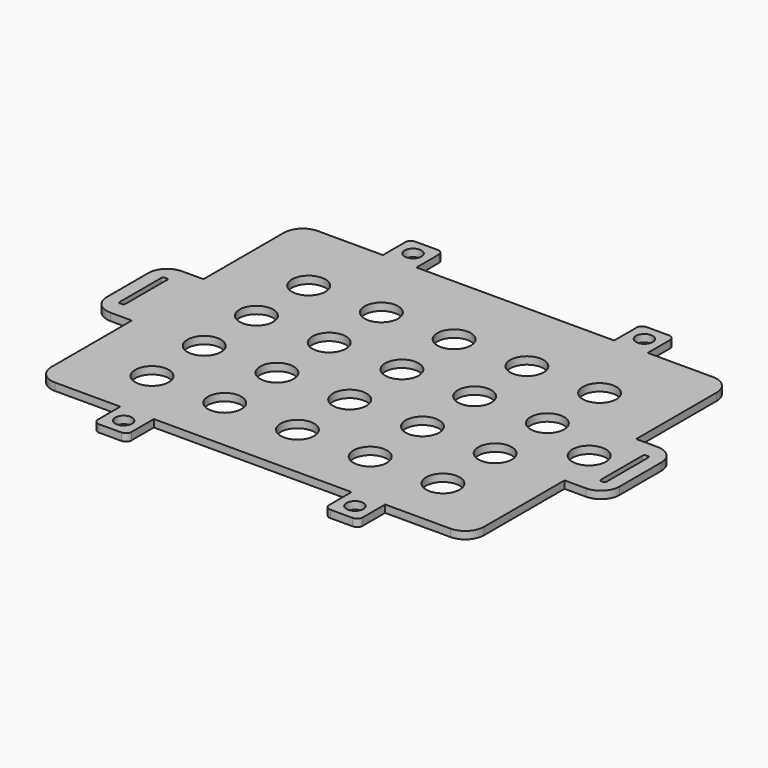
from build123d import *

# Parameters (mm, degrees)
F0_R     = 9
F0_R_2   = 4.5
F0_W     = 3
F0_H     = 30
F1_DEPTH = 4
F2_R     = 1
F3_R     = 1
F4_R     = 1
F5_R     = 1


with BuildPart() as f1:
    # F0 (on Top) → F1 (new body)
    with BuildSketch(Plane.XY):
        with BuildLine():
            Line((71, -88), (106, -88))
            ThreePointArc((106, -88), (113.071068, -85.071068), (116, -78))
            Line((116, -78), (116, -24))
            Line((116, -24), (127.5, -24))
            ThreePointArc((127.5, -24), (134.571068, -21.071068), (137.5, -14))
            Line((137.5, -14), (137.5, 14))
            ThreePointArc((137.5, 14), (134.571068, 21.071068), (127.5, 24))
            Line((127.5, 24), (116, 24))
            Line((116, 24), (116, 78))
            ThreePointArc((116, 78), (113.071068, 85.071068), (106, 88))
            Line((106, 88), (71, 88))
            Line((71, 88), (71, 103))
            ThreePointArc((71, 103), (70.12132, 105.12132), (68, 106))
            Line((68, 106), (56, 106))
            ThreePointArc((56, 106), (53.87868, 105.12132), (53, 103))
            Line((53, 103), (53, 88))
            Line((53, 88), (-53, 88))
            Line((-53, 88), (-53, 103))
            ThreePointArc((-53, 103), (-53.87868, 105.12132), (-56, 106))
            Line((-56, 106), (-68, 106))
            ThreePointArc((-68, 106), (-70.12132, 105.12132), (-71, 103))
            Line((-71, 103), (-71, 88))
            Line((-71, 88), (-106, 88))
            ThreePointArc((-106, 88), (-113.071068, 85.071068), (-116, 78))
            Line((-116, 78), (-116, 24))
            Line((-116, 24), (-127.5, 24))
            ThreePointArc((-127.5, 24), (-134.571068, 21.071068), (-137.5, 14))
            Line((-137.5, 14), (-137.5, -14))
            ThreePointArc((-137.5, -14), (-134.571068, -21.071068), (-127.5, -24))
            Line((-127.5, -24), (-116, -24))
            Line((-116, -24), (-116, -78))
            ThreePointArc((-116, -78), (-113.071068, -85.071068), (-106, -88))
            Line((-106, -88), (-71, -88))
            Line((-71, -88), (-71, -103))
            ThreePointArc((-71, -103), (-70.12132, -105.12132), (-68, -106))
            Line((-68, -106), (-56, -106))
            ThreePointArc((-56, -106), (-53.87868, -105.12132), (-53, -103))
            Line((-53, -103), (-53, -88))
            Line((-53, -88), (53, -88))
            Line((53, -88), (53, -103))
            ThreePointArc((53, -103), (53.87868, -105.12132), (56, -106))
            Line((56, -106), (68, -106))
            ThreePointArc((68, -106), (70.12132, -105.12132), (71, -103))
            Line((71, -103), (71, -88))
        make_face()
        with Locations((-78, -58)):
            Circle(F0_R, mode=Mode.SUBTRACT)
        with Locations((-62, -97)):
            Circle(F0_R_2, mode=Mode.SUBTRACT)
        with Locations((-39, -58)):
            Circle(F0_R, mode=Mode.SUBTRACT)
        with Locations((-78, -23)):
            Circle(F0_R, mode=Mode.SUBTRACT)
        with Locations((-39, -23)):
            Circle(F0_R, mode=Mode.SUBTRACT)
        with Locations((62, -97)):
            Circle(F0_R_2, mode=Mode.SUBTRACT)
        with Locations((0, -58)):
            Circle(F0_R, mode=Mode.SUBTRACT)
        with Locations((39, -58)):
            Circle(F0_R, mode=Mode.SUBTRACT)
        with Locations((78, -58)):
            Circle(F0_R, mode=Mode.SUBTRACT)
        with Locations((0, -23)):
            Circle(F0_R, mode=Mode.SUBTRACT)
        with Locations((39, -23)):
            Circle(F0_R, mode=Mode.SUBTRACT)
        with Locations((78, -23)):
            Circle(F0_R, mode=Mode.SUBTRACT)
        Polygon((-127.5, 15), (-127.5, 0), (-127.5, -15), (-130.5, -15), (-130.5, 0), (-130.5, 15), align=None, mode=Mode.SUBTRACT)
        with Locations((-78, 12)):
            Circle(F0_R, mode=Mode.SUBTRACT)
        with Locations((-78, 47)):
            Circle(F0_R, mode=Mode.SUBTRACT)
        with Locations((-39, 12)):
            Circle(F0_R, mode=Mode.SUBTRACT)
        with Locations((-39, 47)):
            Circle(F0_R, mode=Mode.SUBTRACT)
        with Locations((-62, 97)):
            Circle(F0_R_2, mode=Mode.SUBTRACT)
        with Locations((0, 12)):
            Circle(F0_R, mode=Mode.SUBTRACT)
        with Locations((39, 12)):
            Circle(F0_R, mode=Mode.SUBTRACT)
        with Locations((0, 47)):
            Circle(F0_R, mode=Mode.SUBTRACT)
        with Locations((39, 47)):
            Circle(F0_R, mode=Mode.SUBTRACT)
        with Locations((78, 12)):
            Circle(F0_R, mode=Mode.SUBTRACT)
        with Locations((110, 0)):
            Circle(F0_R, mode=Mode.SUBTRACT)
        with Locations((129, 0)):
            Rectangle(F0_W, F0_H, mode=Mode.SUBTRACT)
        with Locations((78, 47)):
            Circle(F0_R, mode=Mode.SUBTRACT)
        with Locations((62, 97)):
            Circle(F0_R_2, mode=Mode.SUBTRACT)
    extrude(amount=F1_DEPTH)

    # F2
    f2_edges = [f1.edges().sort_by_distance(p)[0] for p in [
        (127.5, -15, 2),
        (130.5, -15, 2),
    ]]
    fillet(f2_edges, radius=F2_R)

    # F3
    f3_edges = [f1.edges().sort_by_distance(p)[0] for p in [
        (127.5, 15, 2),
        (130.5, 15, 2),
    ]]
    fillet(f3_edges, radius=F3_R)

    # F4
    f4_edges = [f1.edges().sort_by_distance(p)[0] for p in [
        (-130.5, 15, 2),
        (-127.5, 15, 2),
    ]]
    fillet(f4_edges, radius=F4_R)

    # F5
    f5_edges = [f1.edges().sort_by_distance(p)[0] for p in [
        (-130.5, -15, 2),
        (-127.5, -15, 2),
    ]]
    fillet(f5_edges, radius=F5_R)


solid = f1.part
